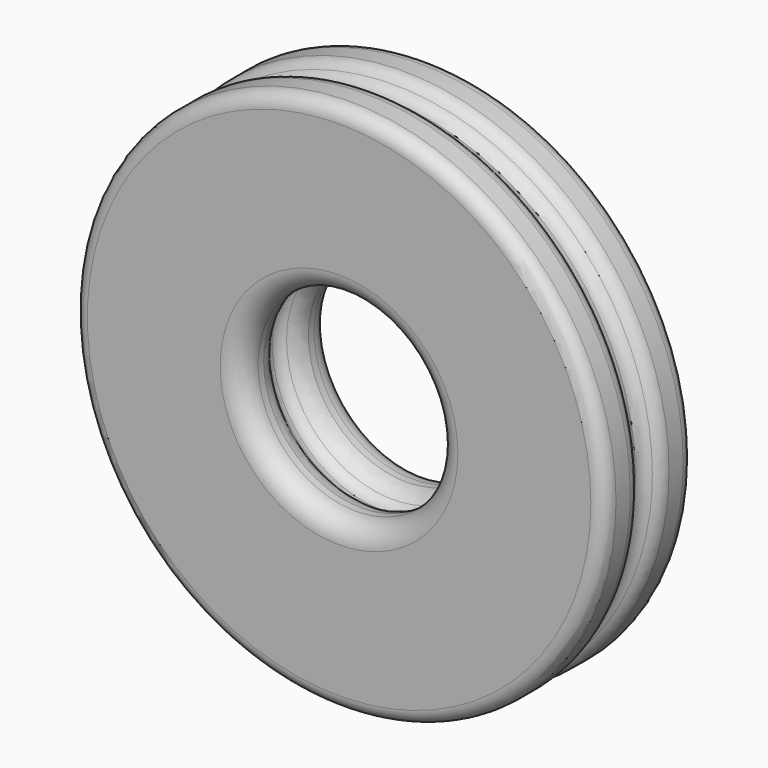
from build123d import *

# Parameters (mm, degrees)
F0_W = 152.4
F0_H = 38.1
F2_R = 12.7
F3_R = 19.05


with BuildPart() as f1:
    # F0 (on Top) → F1 (revolve)
    with BuildSketch(Plane.XY):
        with Locations((165.1, 19.05)):
            Rectangle(F0_W, F0_H)
        with BuildLine():
            ThreePointArc((101.6, 50.8), (97.880256, 41.819744), (88.9, 38.1))
            Line((88.9, 38.1), (241.3, 38.1))
            ThreePointArc((241.3, 38.1), (232.319744, 41.819744), (228.6, 50.8))
            Line((228.6, 50.8), (101.6, 50.8))
        make_face()
        with BuildLine():
            ThreePointArc((88.9, 63.5), (97.880256, 59.780256), (101.6, 50.8))
            Line((101.6, 50.8), (228.6, 50.8))
            ThreePointArc((228.6, 50.8), (232.319744, 59.780256), (241.3, 63.5))
            Line((241.3, 63.5), (88.9, 63.5))
        make_face()
        with Locations((165.1, 82.55)):
            Rectangle(F0_W, F0_H)
    revolve(axis=Axis((0, 53.784903, 0), (0, -1, 0)))

    # F2
    f2_edges = [f1.edges().sort_by_distance(p)[0] for p in [
        (-241.3, 63.5, 0),
        (-241.3, 101.6, 0),
        (-241.3, 38.1, 0),
        (-241.3, 0, 0),
    ]]
    fillet(f2_edges, radius=F2_R)

    # F3
    f3_edges = [f1.edges().sort_by_distance(p)[0] for p in [
        (-88.9, 101.6, 0),
        (-88.9, 63.5, 0),
        (-88.9, 38.1, 0),
        (-88.9, 0, 0),
    ]]
    fillet(f3_edges, radius=F3_R)


solid = f1.part
